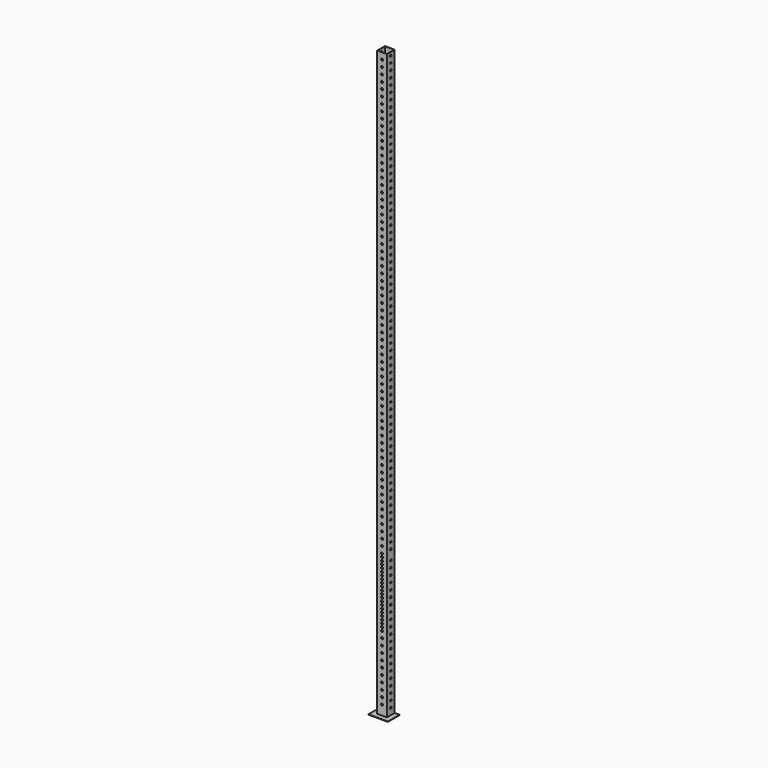
from build123d import *

# Parameters (mm, degrees)
F0_W     = 152.589858
F0_H     = 114.351779
F0_W_2   = 76.2
F0_H_2   = 76.2
F1_DEPTH = 3.048
F0_W_3   = 73.152
F0_H_3   = 73.152
F2_DEPTH = 4572
F7_D     = 15.875
F8_D     = 15.875


with BuildPart() as f1:
    # F0 (on Top) → F1 (new body)
    with BuildSketch(Plane.XY):
        with Locations((0.045307, -19.073733)):
            Rectangle(F0_W, F0_H)
        Rectangle(F0_W_2, F0_H_2, mode=Mode.SUBTRACT)
    extrude(amount=-F1_DEPTH)

    # F0 (on Top) → F2 (join)
    with BuildSketch(Plane.XY):
        Rectangle(F0_W_2, F0_H_2)
        Rectangle(F0_W_3, F0_H_3, mode=Mode.SUBTRACT)
    extrude(amount=F2_DEPTH)

    # F7 (through all)
    with Locations(Plane.XZ.offset(76.2)):
        with Locations((2.3e-05, 76.2), (2.3e-05, 127), (2.3e-05, 177.8), (2.3e-05, 228.6), (2.3e-05, 279.4), (2.3e-05, 330.2), (2.3e-05, 381), (2.3e-05, 431.8), (2.3e-05, 482.6), (2.3e-05, 533.4), (2.3e-05, 584.2), (0, 609.59998), (-2.3e-05, 634.999959), (-4.6e-05, 660.399939), (-6.8e-05, 685.799918), (-9.1e-05, 711.199898), (-0.000114, 736.599877), (-0.000137, 761.999857), (-0.00016, 787.399836), (-0.000183, 812.799816), (-0.000205, 838.199795), (-0.000228, 863.599775), (-0.000251, 888.999754), (-0.000274, 914.399734), (-0.000297, 939.799713), (-0.00032, 965.199693), (-0.000342, 990.599672), (-0.000365, 1015.999652), (-0.000388, 1041.399632), (-0.000411, 1066.799611), (-0.000434, 1092.199591), (-0.000457, 1117.59957), (0.000502, 1168.39957), (0.000502, 1219.19957), (0.000502, 1269.99957), (0.000502, 1320.79957), (0.000502, 1371.59957), (0.000502, 1422.39957), (0.000502, 1473.19957), (0.000502, 1523.99957), (0.000502, 1574.79957), (0.000502, 1625.59957), (0.000502, 1676.39957), (0.000502, 1727.19957), (0.000502, 1777.99957), (0.000502, 1828.79957), (0.000502, 1879.59957), (0.000502, 1930.39957), (0.000502, 1981.19957), (0.000502, 2031.99957), (0.000502, 2082.79957), (0.000502, 2133.59957), (0.000502, 2184.39957), (0.000502, 2235.19957), (0.000502, 2285.99957), (0.000502, 2336.79957), (0.000502, 2387.59957), (0.000502, 2438.39957), (0.000502, 2489.19957), (0.000502, 2539.99957), (0.000502, 2590.79957), (0.000502, 2641.59957), (0.000502, 2692.39957), (0.000502, 2793.99957), (0.000502, 2844.79957), (0.000502, 2895.59957), (0.000502, 2946.39957), (0.000502, 2997.19957), (0.000502, 3047.99957), (0.000502, 3098.79957), (0.000502, 3149.59957), (0.000502, 3200.39957), (0.000502, 3251.19957), (0.000502, 3301.99957), (0.000502, 3352.79957), (0.000502, 3403.59957), (0.000502, 3454.39957), (0.000502, 3505.19957), (0.000502, 3555.99957), (0.000502, 3606.79957), (0, 2743.19957), (0.000502, 3657.59957), (0.000502, 3708.39957), (0.000502, 3759.19957), (0.000502, 3809.99957), (0.000502, 3860.79957), (0.000502, 3911.59957), (0.000502, 3962.39957), (0.000502, 4013.19957), (0.000502, 4063.99957), (0.000502, 4114.79957), (0.000502, 4165.59957), (0.000502, 4216.39957), (0.000502, 4267.19957), (0.000502, 4317.99957), (0.000502, 4368.79957), (0.000502, 4419.59957), (0.000502, 4470.39957), (0.000502, 4521.19957)):
            Hole(F7_D / 2)

    # F8 (through all)
    with Locations(Plane.YZ.offset(76.2)):
        with Locations((0, 50.8), (0, 101.6), (0, 152.4), (0, 203.2), (0, 254), (0, 304.8), (0, 355.6), (0, 406.4), (0, 457.2), (0, 508), (0, 558.8), (0, 609.6), (0, 660.4), (0, 711.2), (0, 762), (0, 812.8), (0, 863.6), (0, 914.4), (0, 965.2), (0, 1016), (0, 1066.8), (0, 1143), (0, 1193.8), (0, 1244.6), (0, 1295.4), (0, 1346.2), (0, 1397), (0, 1447.8), (0, 1498.6), (0, 1549.4), (0, 1600.2), (0, 1651), (0, 1701.8), (0, 1752.6), (0, 1803.4), (0, 1854.2), (0, 1905), (0, 1955.8), (0, 2006.6), (0, 2057.4), (0, 2108.2), (0, 2159), (0, 2209.8), (0, 2260.6), (0, 2311.4), (0, 2362.2), (0, 2413), (0, 2463.8), (0, 2514.6), (0, 2565.4), (0, 2616.2), (0, 2667), (0, 2717.8), (0, 2819.4), (0, 2870.2), (0, 2768.6), (0, 2921), (0, 2971.8), (0, 3022.6), (0, 3073.4), (0, 3124.2), (0, 3175), (0, 3225.8), (0, 3276.6), (0, 3327.4), (0, 3378.2), (0, 3429), (0, 3479.8), (0, 3530.6), (0, 3581.4), (0, 3632.2), (0, 3683), (0, 3733.8), (0, 3784.6), (0, 3835.4), (0, 3886.2), (0, 3937), (0, 3987.8), (0, 4038.6), (0, 4089.4), (0, 4140.2), (0, 4191), (0, 4241.8), (0, 4292.6), (0, 4343.4), (0, 4394.2), (0, 4445), (0, 4495.8), (0, 4546.6)):
            Hole(F8_D / 2)


solid = f1.part
